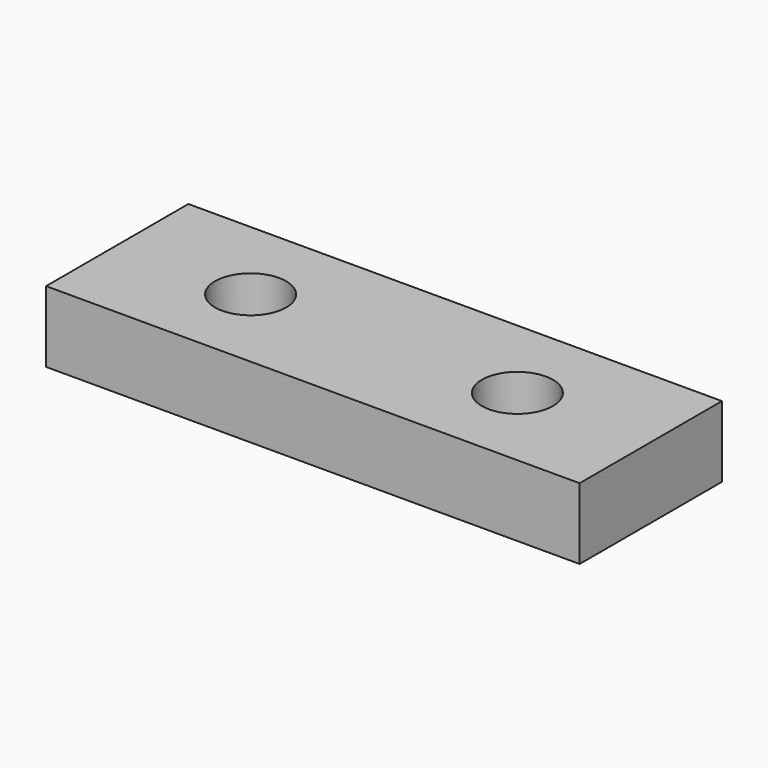
from build123d import *

# Parameters (mm, degrees)
F0_W     = 30
F0_H     = 10
F1_DEPTH = 4
F3_D     = 4


with BuildPart() as f1:
    # F0 (on Top) → F1 (new body)
    with BuildSketch(Plane.XY):
        Rectangle(F0_W, F0_H)
    extrude(amount=F1_DEPTH)

    # F3 (through all)
    with Locations(Plane(origin=(0, 0, 0), x_dir=(1, 0, 0), z_dir=(0, 0, -1))):
        with Locations((-7.5, 0), (7.5, 0)):
            Hole(F3_D / 2)


solid = f1.part
